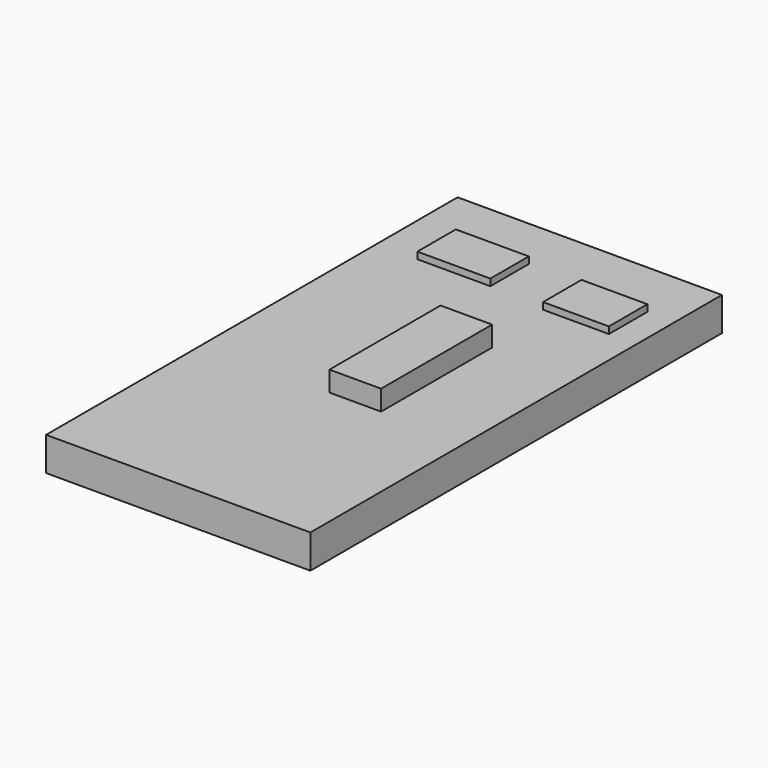
from build123d import *

# Parameters (mm, degrees)
F0_W     = 7.66359
F0_H     = 20.612416
F1_DEPTH = 8
F0_W_2   = 10.834733
F0_H_2   = 7.135067
F0_W_3   = 9.777686
F2_DEPTH = 6
F0_W_4   = 39.242871
F0_H_3   = 76.371645
F3_DEPTH = 5


with BuildPart() as f1:
    # F0 (on Top) → F1 (new body)
    with BuildSketch(Plane.XY):
        with Locations((-16.384229, 22.330118)):
            Rectangle(F0_W, F0_H)
    extrude(amount=F1_DEPTH)


with BuildPart() as f2:
    # F0 (on Top) → F2 (new body)
    with BuildSketch(Plane.XY):
        with Locations((-27.747484, 48.095637)):
            Rectangle(F0_W_2, F0_H_2)
        with Locations((-8.9849, 47.302855)):
            Rectangle(F0_W_3, F0_H_2)
    extrude(amount=F2_DEPTH)


with BuildPart() as f3:
    # F0 (on Top) → F3 (new body)
    with BuildSketch(Plane.XY):
        with Locations((-19.621436, 21.405202)):
            Rectangle(F0_W_4, F0_H_3)
        with Locations((-27.747484, 48.095637)):
            Rectangle(F0_W_2, F0_H_2, mode=Mode.SUBTRACT)
        with Locations((-16.384229, 22.330118)):
            Rectangle(F0_W, F0_H, mode=Mode.SUBTRACT)
        with Locations((-8.9849, 47.302855)):
            Rectangle(F0_W_3, F0_H_2, mode=Mode.SUBTRACT)
    extrude(amount=F3_DEPTH)


solid = Compound([f1.part, f2.part, f3.part])
